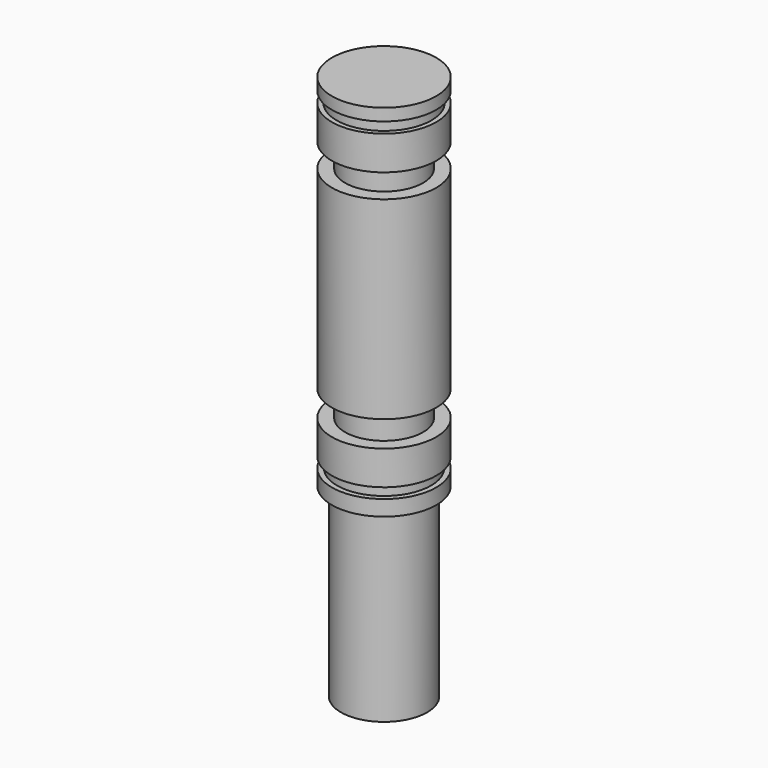
from build123d import *

# Parameters (mm, degrees)
F0_R      = 5
F1_DEPTH  = 21.5
F2_R      = 6.05
F3_DEPTH  = 1.8
F4_R      = 5.45
F5_DEPTH  = 1.2
F6_R      = 6.05
F7_DEPTH  = 3.95
F8_R      = 4.525
F9_DEPTH  = 3
F10_R     = 6.05
F11_DEPTH = 22.45
F12_R     = 4.525
F13_DEPTH = 2.75
F14_R     = 6.05
F15_DEPTH = 3.95
F16_R     = 5.5
F17_DEPTH = 1.25
F18_R     = 6.05
F19_DEPTH = 1.4


with BuildPart() as f1:
    # F0 (on Top) → F1 (new body)
    with BuildSketch(Plane.XY):
        Circle(F0_R)
    extrude(amount=-F1_DEPTH)

    # F2 (on Top) → F3 (join)
    with BuildSketch(Plane.XY):
        Circle(F2_R)
    extrude(amount=F3_DEPTH)

    # F4 (on face) → F5 (join)
    with BuildSketch(Plane.XY.offset(1.8)):
        Circle(F4_R)
    extrude(amount=F5_DEPTH)

    # F6 (on face) → F7 (join)
    with BuildSketch(Plane.XY.offset(3)):
        Circle(F6_R)
    extrude(amount=F7_DEPTH)

    # F8 (on face) → F9 (join)
    with BuildSketch(Plane.XY.offset(6.95)):
        Circle(F8_R)
    extrude(amount=F9_DEPTH)

    # F10 (on face) → F11 (join)
    with BuildSketch(Plane.XY.offset(9.95)):
        Circle(F10_R)
    extrude(amount=F11_DEPTH)

    # F12 (on face) → F13 (join)
    with BuildSketch(Plane.XY.offset(32.4)):
        Circle(F12_R)
    extrude(amount=F13_DEPTH)

    # F14 (on face) → F15 (join)
    with BuildSketch(Plane.XY.offset(35.15)):
        Circle(F14_R)
    extrude(amount=F15_DEPTH)

    # F16 (on face) → F17 (join)
    with BuildSketch(Plane.XY.offset(39.1)):
        Circle(F16_R)
    extrude(amount=F17_DEPTH)

    # F18 (on face) → F19 (join)
    with BuildSketch(Plane.XY.offset(40.35)):
        Circle(F18_R)
    extrude(amount=F19_DEPTH)


solid = f1.part
